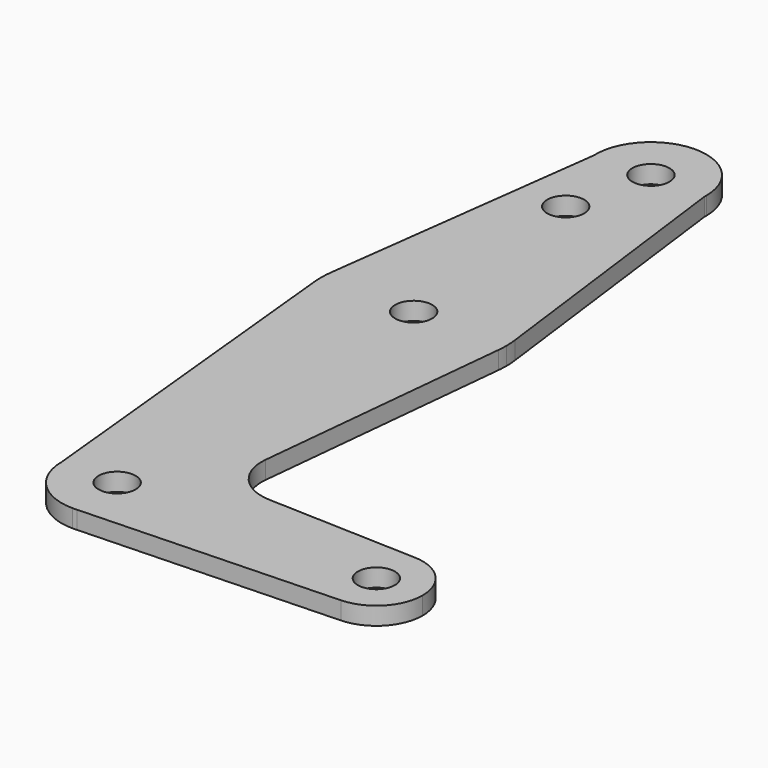
from build123d import *

# Parameters (mm, degrees)
F0_R     = 3.175
F1_DEPTH = 3.048


with BuildPart() as f1:
    # F0 (on Top) → F1 (new body)
    with BuildSketch(Plane.XY):
        with BuildLine():
            ThreePointArc((9.603399, 113.926234), (9.6089, 114.113065), (9.610734, 114.299968))
            ThreePointArc((9.610734, 114.299968), (-0.101169, 123.823134), (-9.431931, 113.926234))
            ThreePointArc((-9.431931, 113.926234), (0.085734, 104.774968), (9.603399, 113.926234))
        make_face()
        with Locations((0.085734, 114.299968)):
            Circle(F0_R, mode=Mode.SUBTRACT)
        with BuildLine():
            ThreePointArc((9.603399, 113.926234), (0.085734, 104.774968), (-9.431931, 113.926234))
            Line((-9.431931, 113.926234), (-15.695999, 65.538085))
            ThreePointArc((-15.695999, 65.538085), (0.059924, 79.374995), (15.794396, 65.513697))
            Line((15.794396, 65.513697), (9.603399, 113.926234))
        make_face()
        with Locations((-3.099974, 100.0252)):
            Circle(F0_R, mode=Mode.SUBTRACT)
        with BuildLine():
            ThreePointArc((15.794396, 65.513697), (0.059924, 79.374995), (-15.695999, 65.538085))
            ThreePointArc((-15.695999, 65.538085), (-15.825751, 63.726731), (-15.747787, 61.91241))
            ThreePointArc((-15.747787, 61.91241), (0.04763, 47.625), (15.843046, 61.91241))
            ThreePointArc((15.843046, 61.91241), (15.902721, 62.705208), (15.92263, 63.5))
            ThreePointArc((15.92263, 63.5), (15.890539, 64.508888), (15.794396, 65.513697))
        make_face()
        with Locations((0.04763, 63.5)):
            Circle(F0_R, mode=Mode.SUBTRACT)
        with BuildLine():
            ThreePointArc((15.843046, 61.91241), (0.04763, 47.625), (-15.747787, 61.91241))
            Line((-15.747787, 61.91241), (-9.525, 0))
            ThreePointArc((-9.525, 0), (0, 9.525), (9.525, 0))
            ThreePointArc((9.525, 0), (6.970557, -6.491299), (0.677344, -9.500886))
            Line((0.677344, -9.500886), (44.732405, -7.932475))
            ThreePointArc((44.732405, -7.932475), (36.5125, 0), (44.732405, 7.932475))
            Line((44.732405, 7.932475), (19.015534, 8.848025))
            ThreePointArc((19.015534, 8.848025), (13.308396, 11.565799), (11.388047, 17.588256))
            Line((11.388047, 17.588256), (15.843046, 61.91241))
        make_face()
        with BuildLine():
            ThreePointArc((9.525, 0), (0, 9.525), (-9.525, 0))
            ThreePointArc((-9.525, 0), (-6.735192, -6.735192), (0, -9.525))
            Line((0, -9.525), (0.677344, -9.500886))
            ThreePointArc((0.677344, -9.500886), (6.970557, -6.491299), (9.525, 0))
        make_face()
        Circle(F0_R, mode=Mode.SUBTRACT)
        with BuildLine():
            Line((0.677344, -9.500886), (0, -9.525))
            ThreePointArc((0, -9.525), (0.338886, -9.51897), (0.677344, -9.500886))
        make_face()
        with BuildLine():
            ThreePointArc((52.3875, 0), (50.161633, 5.51191), (44.732405, 7.932475))
            ThreePointArc((44.732405, 7.932475), (36.5125, 0), (44.732405, -7.932475))
            ThreePointArc((44.732405, -7.932475), (50.161633, -5.51191), (52.3875, 0))
        make_face()
        with Locations((44.45, 0)):
            Circle(F0_R, mode=Mode.SUBTRACT)
    extrude(amount=F1_DEPTH)


solid = f1.part
